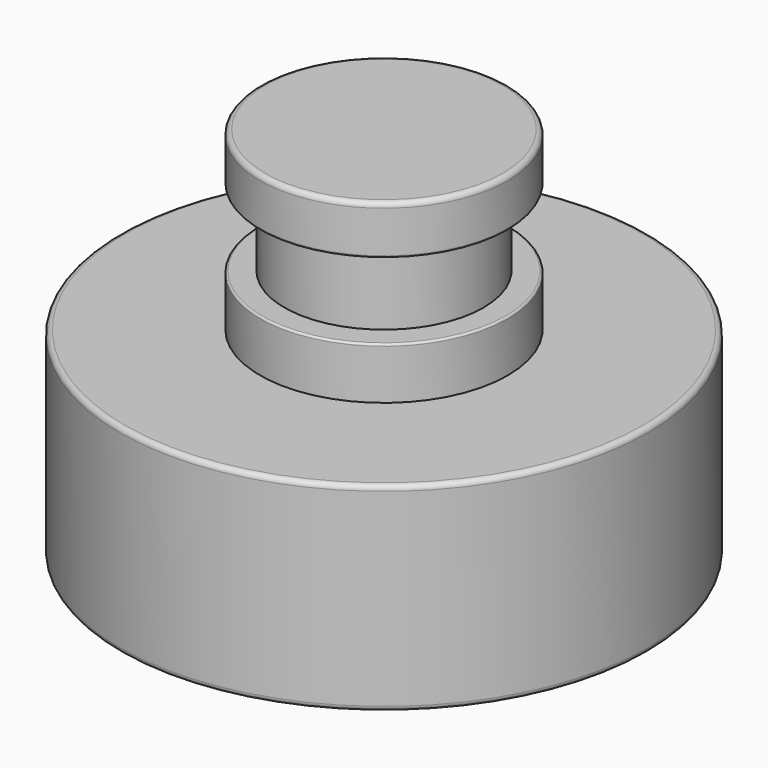
from build123d import *

# Parameters (mm, degrees)
F0_R     = 26.5
F1_DEPTH = 20
F2_R     = 12.44
F3_DEPTH = 5.2
F4_R     = 10
F5_DEPTH = 7.6
F6_R     = 12.44
F7_DEPTH = 4.9
F8_R     = 0.5
F9_R     = 0.2


with BuildPart() as f1:
    # F0 (on Top) → F1 (new body)
    with BuildSketch(Plane.XY):
        Circle(F0_R)
    extrude(amount=F1_DEPTH)

    # F2 (on face) → F3 (join)
    with BuildSketch(Plane.XY.offset(20)):
        Circle(F2_R)
    extrude(amount=F3_DEPTH)

    # F4 (on face) → F5 (join)
    with BuildSketch(Plane.XY.offset(25.2)):
        Circle(F4_R)
    extrude(amount=F5_DEPTH)

    # F6 (on face) → F7 (join)
    with BuildSketch(Plane.XY.offset(32.8)):
        Circle(F6_R)
    extrude(amount=F7_DEPTH)

    # F8
    f8_edges = [f1.edges().sort_by_distance(p)[0] for p in [
        (-12.44, 0, 37.7),
        (-26.5, 0, 20),
        (-26.5, 0, 0),
    ]]
    fillet(f8_edges, radius=F8_R)

    # F9
    f9_edges = [f1.edges().sort_by_distance(p)[0] for p in [
        (-12.44, 0, 25.2),
        (-12.44, 0, 32.8),
    ]]
    fillet(f9_edges, radius=F9_R)


solid = f1.part
